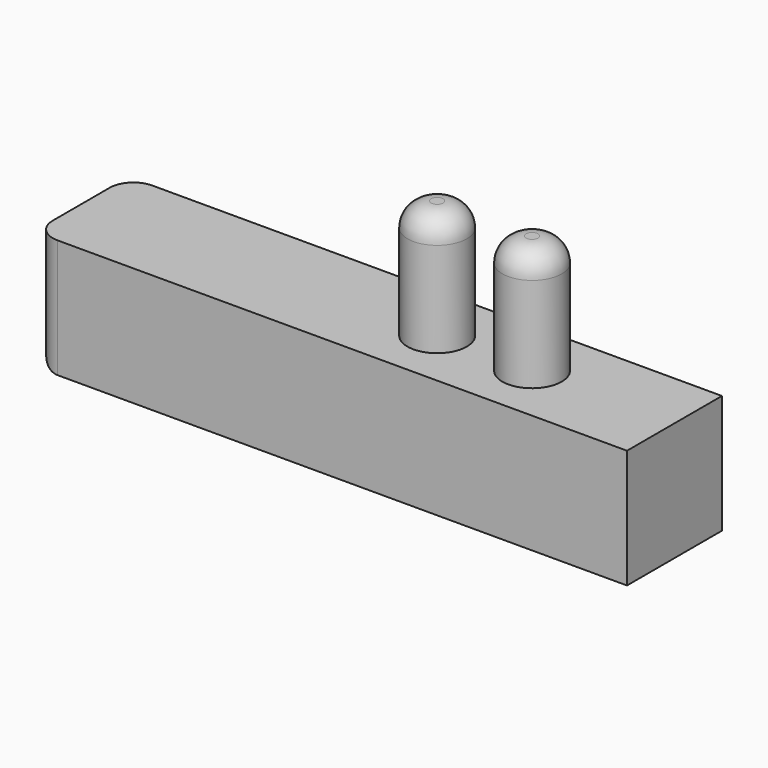
from build123d import *

# Parameters (mm, degrees)
F0_W     = 25
F0_H     = 5
F1_DEPTH = 5
F2_R     = 1.25
F3_DEPTH = 5
F4_R     = 1


with BuildPart() as f1:
    # F0 (on Top) → F1 (new body)
    with BuildSketch(Plane.XY):
        with Locations((2.022313, 0)):
            Rectangle(F0_W, F0_H)
    extrude(amount=F1_DEPTH)

    # F2 (on face) → F3 (join)
    with BuildSketch(Plane.XY.offset(5)):
        with Locations((4.522313, 0)):
            Circle(F2_R)
        with Locations((8.522313, 0)):
            Circle(F2_R)
    extrude(amount=F3_DEPTH)

    # F4
    f4_edges = [f1.edges().sort_by_distance(p)[0] for p in [
        (-10.477687, -2.5, 2.5),
        (-10.477687, 2.5, 2.5),
        (3.272313, 0, 10),
        (7.272313, 0, 10),
        (-10.477687, 0, 0),
    ]]
    fillet(f4_edges, radius=F4_R)


solid = f1.part
